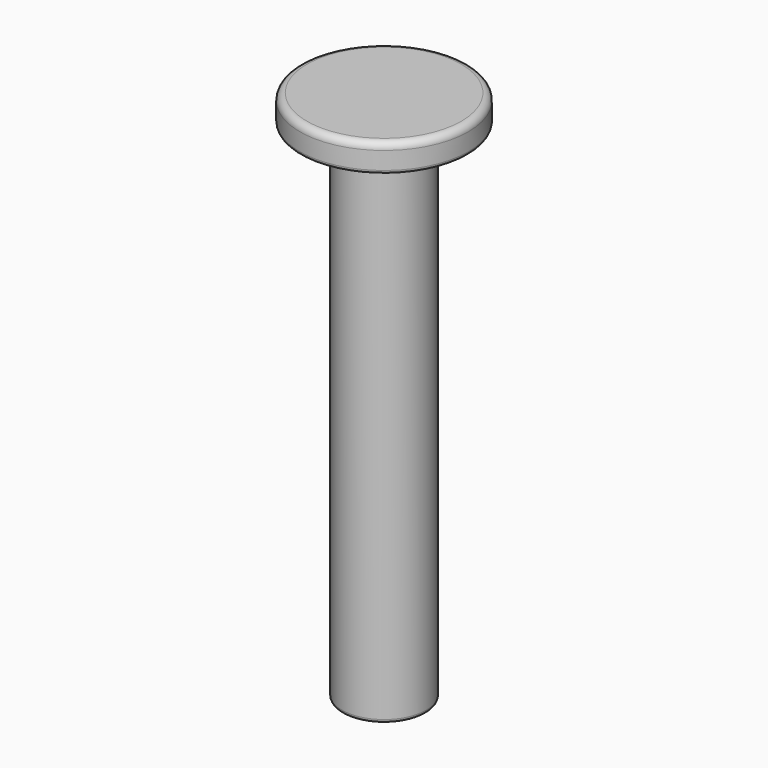
from build123d import *

# Parameters (mm, degrees)
F0_R     = 3
F1_DEPTH = 36
F2_R     = 6
F3_DEPTH = 2
F4_R     = 0.5
F5_R     = 0.25


with BuildPart() as f1:
    # F0 (on Top) → F1 (new body)
    with BuildSketch(Plane.XY):
        Circle(F0_R)
    extrude(amount=F1_DEPTH)

    # F2 (on face) → F3 (join)
    with BuildSketch(Plane.XY.offset(36)):
        Circle(F2_R)
    extrude(amount=F3_DEPTH)

    # F4
    f4_edges = [f1.edges().sort_by_distance(p)[0] for p in [
        (-6, 0, 38),
    ]]
    fillet(f4_edges, radius=F4_R)

    # F5
    f5_edges = [f1.edges().sort_by_distance(p)[0] for p in [
        (-6, 0, 36),
        (-3, 0, 0),
    ]]
    fillet(f5_edges, radius=F5_R)


solid = f1.part
